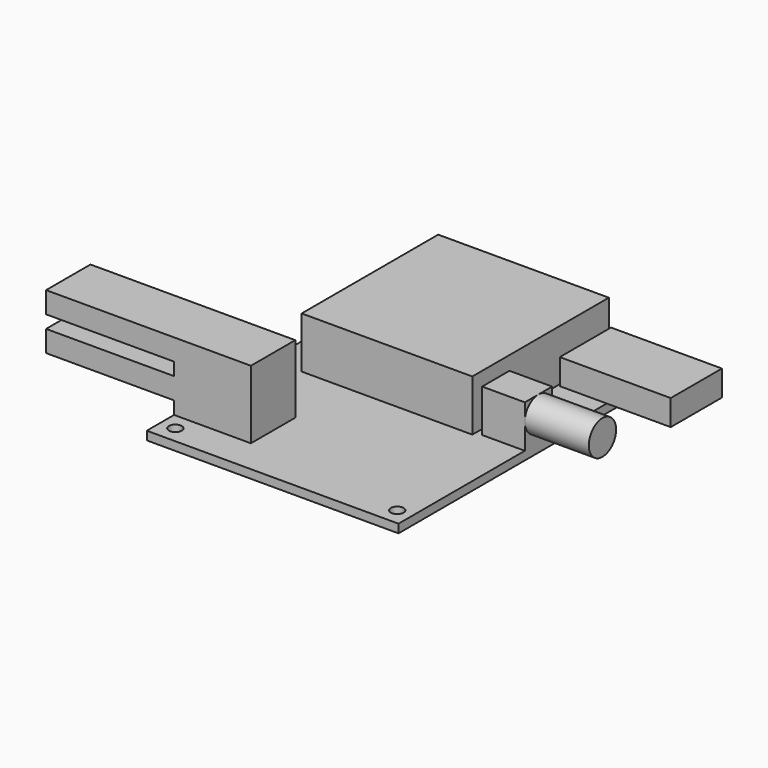
from build123d import *

# Parameters (mm, degrees)
F0_W      = 59
F0_H      = 84
F0_R      = 1.5
F1_DEPTH  = 2
F2_W      = 40
F2_H      = 40
F3_DEPTH  = 12
F4_W      = 18
F4_H      = 13
F5_DEPTH  = 16
F6_W      = 13
F6_H      = 5
F7_DEPTH  = 30
F8_W      = 10
F8_H      = 8
F9_DEPTH  = 10
F10_R     = 4
F11_DEPTH = 15
F12_W     = 11
F12_H     = 15
F13_DEPTH = 6
F14_W     = 15
F14_H     = 6
F15_DEPTH = 15


with BuildPart() as f1:
    # F0 (on Top) → F1 (new body)
    with BuildSketch(Plane.XY):
        Rectangle(F0_W, F0_H)
        with Locations((-26, -38)):
            Circle(F0_R, mode=Mode.SUBTRACT)
        with Locations((26, -38)):
            Circle(F0_R, mode=Mode.SUBTRACT)
        with Locations((-26, 38)):
            Circle(F0_R, mode=Mode.SUBTRACT)
        with Locations((26, 38)):
            Circle(F0_R, mode=Mode.SUBTRACT)
    extrude(amount=F1_DEPTH)

    # F2 (on face) → F3 (join)
    with BuildSketch(Plane.XY.offset(2)):
        with Locations((-2, 14)):
            Rectangle(F2_W, F2_H)
    extrude(amount=F3_DEPTH)

    # F4 (on face) → F5 (join)
    with BuildSketch(Plane.XY.offset(2)):
        with Locations((-20.5, -27.5)):
            Rectangle(F4_W, F4_H)
    extrude(amount=F5_DEPTH)

    # F6 (on face) → F7 (join)
    with BuildSketch(Plane(origin=(-29.5, 0, 0), x_dir=(0, -1, 0), z_dir=(-1, 0, 0))):
        with Locations((27.5, 15.5)):
            Rectangle(F6_W, F6_H)
        with Locations((27.5, 7.5)):
            Rectangle(F6_W, F6_H)
    extrude(amount=F7_DEPTH)

    # F8 (on face) → F9 (join)
    with BuildSketch(Plane.XY.offset(2)):
        with Locations((24.5, -1)):
            Rectangle(F8_W, F8_H)
    extrude(amount=F9_DEPTH)

    # F10 (on face) → F11 (join)
    with BuildSketch(Plane.YZ.offset(29.5)):
        with Locations((-1, 8)):
            Circle(F10_R)
    extrude(amount=F11_DEPTH)

    # F12 (on face) → F13 (join)
    with BuildSketch(Plane.XY.offset(2)):
        with Locations((24, 26.5)):
            Rectangle(F12_W, F12_H)
    extrude(amount=F13_DEPTH)

    # F14 (on face) → F15 (join)
    with BuildSketch(Plane.YZ.offset(29.5)):
        with Locations((26.5, 5)):
            Rectangle(F14_W, F14_H)
    extrude(amount=F15_DEPTH)


solid = f1.part
